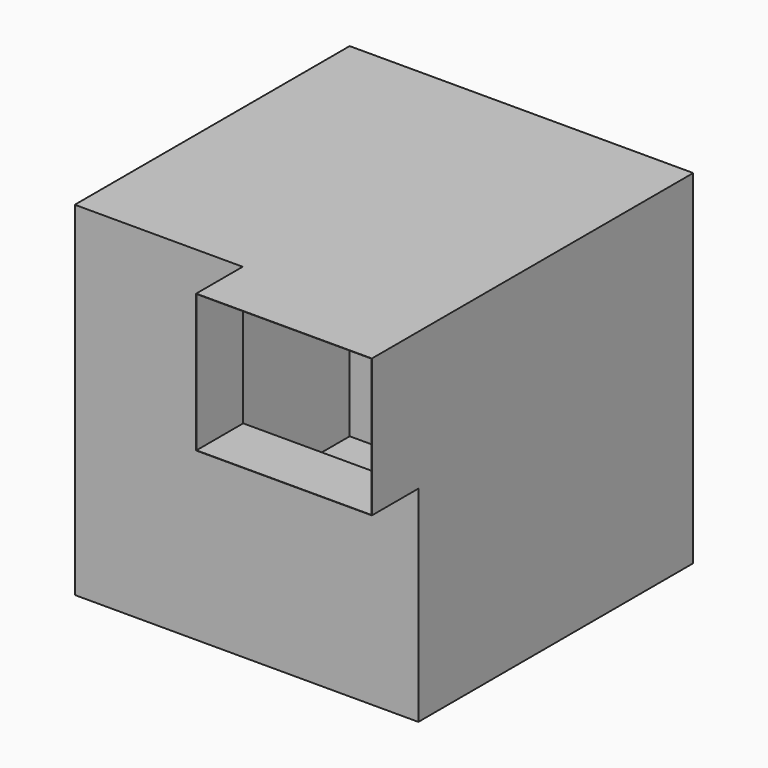
from build123d import *

# Parameters (mm, degrees)
F0_W     = 2999.9985240894
F0_H     = 3000
F2_DEPTH = 3000
F3_W     = 1533.9118980365
F3_H     = 1206.4609527588
F4_DEPTH = 456.6498994827
F6_DEPTH = 7.7816080302
F7_DEPTH = 25.4
F8_DEPTH = 25.4
F9_T     = -2.54


with BuildPart() as f2:
    # F0 (on Top) → F2 (new body)
    with BuildSketch(Plane.XY):
        with Locations((1499.9992620447, 1500)):
            Rectangle(F0_W, F0_H)
    extrude(amount=-F2_DEPTH)

    # F3 (on face) → F4 (join)
    with BuildSketch(Plane.XZ):
        with Locations((2233.0425750711, -603.2304763794)):
            Rectangle(F3_W, F3_H)
    extrude(amount=F4_DEPTH)

    # F6 (add): a face of the model
    f6_faces = [f2.faces().sort_by_distance(p)[0] for p in [
        (2233.0425750711, -456.6498994827, -603.2304763794),
    ]]
    extrude(f6_faces, amount=-F6_DEPTH)

    # F7 (add): a face of the model
    f7_faces = [f2.faces().sort_by_distance(p)[0] for p in [
        (2233.0425750711, -456.6498994827, -603.2304763794),
    ]]
    extrude(f7_faces, amount=F7_DEPTH)

    # F8 (add): a face of the model
    f8_faces = [f2.faces().sort_by_distance(p)[0] for p in [
        (2233.0425750711, -482.0498994827, -603.2304763794),
    ]]
    extrude(f8_faces, amount=F8_DEPTH)

    # F9
    f9_openings = [f2.faces().sort_by_distance(p)[0] for p in [
        (2233.042575, -507.449899, -603.230476),
    ]]
    offset(amount=F9_T, openings=f9_openings, kind=Kind.INTERSECTION)


solid = f2.part
